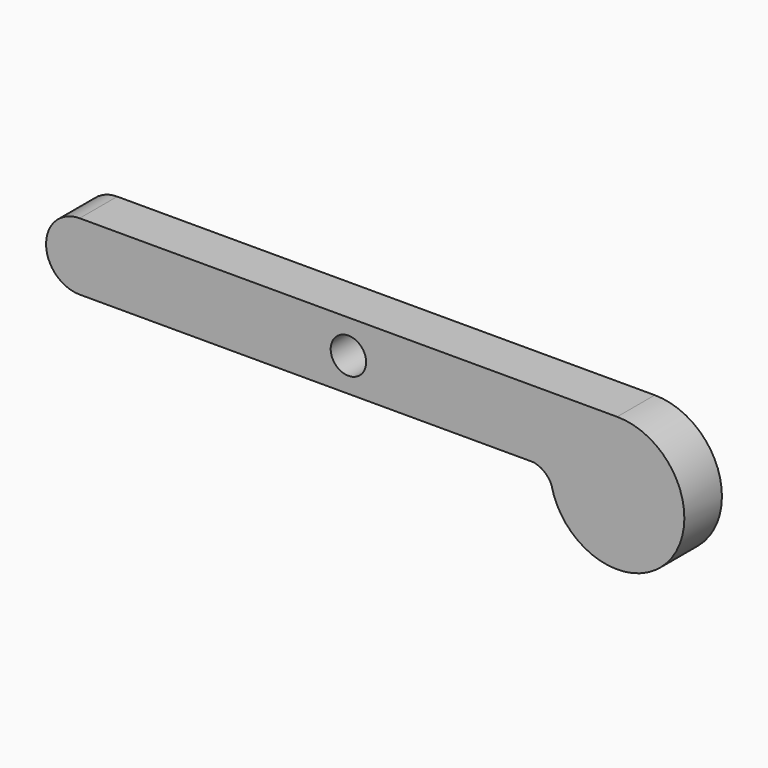
from build123d import *

# Parameters (mm, degrees)
F0_R     = 1.9177
F1_DEPTH = 5.08


with BuildPart() as f1:
    # F0 (on Front) → F1 (new body)
    with BuildSketch(Plane.XZ):
        with BuildLine():
            Line((-29.074564, -3.634321), (20.003, -3.634321))
            ThreePointArc((20.003, -3.634321), (21.182559, -4.146364), (21.9687, -5.163974))
            ThreePointArc((21.9687, -5.163974), (34.729281, -8.201302), (29.074564, 3.634321))
            Line((29.074564, 3.634321), (-29.074564, 3.634321))
            ThreePointArc((-29.074564, 3.634321), (-32.708885, 0), (-29.074564, -3.634321))
        make_face()
        Circle(F0_R, mode=Mode.SUBTRACT)
    extrude(amount=F1_DEPTH)


solid = f1.part
